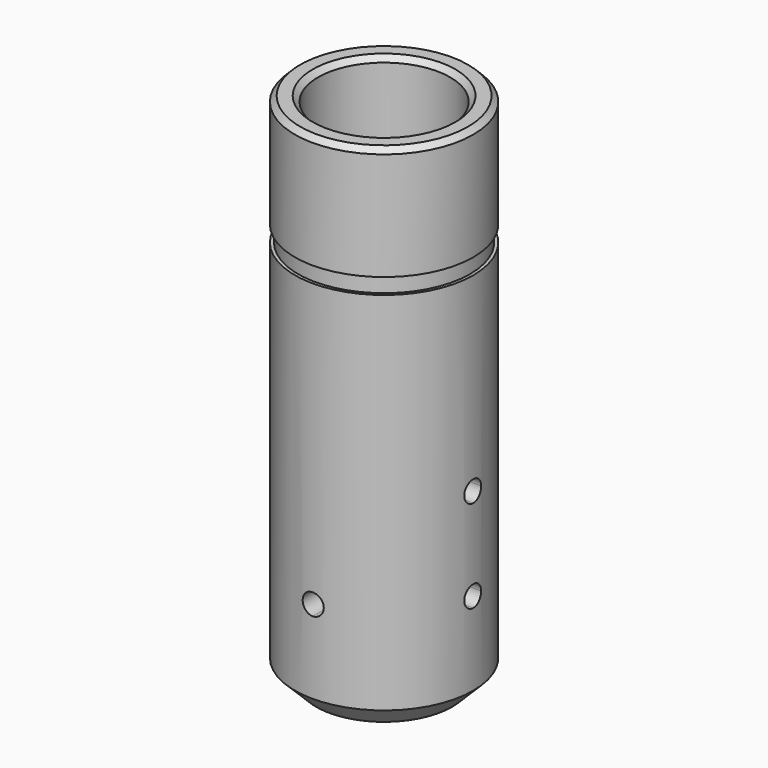
from build123d import *

# Parameters (mm, degrees)
F2_SIZE  = 2.54
F3_SIZE  = 0.635
F5_DEPTH = 12.7
F7_DEPTH = 12.7


with BuildPart() as f1:
    # F0 (on Front) → F1 (revolve)
    with BuildSketch(Plane.XZ):
        Polygon((4.1783, 10.0584), (4.1783, 0), (10.7442, 0), (10.7442, 46.5836), (10.3632, 46.5836), (10.3632, 48.4886), (10.7442, 48.4886), (10.7442, 62.1284), (7.9629, 62.1284), (7.9629, 10.0584), align=None)
    revolve(axis=Axis((0, 0, 31.0642), (0, 0, 1)))

    # F2
    f2_edges = [f1.edges().sort_by_distance(p)[0] for p in [
        (-10.7442, 0, 0),
    ]]
    chamfer(f2_edges, length=F2_SIZE)

    # F3
    f3_edges = [f1.edges().sort_by_distance(p)[0] for p in [
        (-10.7442, 0, 62.1284),
        (-7.9629, 0, 62.1284),
    ]]
    chamfer(f3_edges, length=F3_SIZE)

    # F4 (on Right) → F5 (cut, symmetric)
    with BuildSketch(Plane.YZ):
        with BuildLine():
            ThreePointArc((0, 13.843), (-1.27, 12.573), (0, 11.303))
            Line((0, 11.303), (0, 12.573))
            Line((0, 12.573), (0, 13.843))
        make_face()
        with BuildLine():
            ThreePointArc((1.27, 23.6982), (-0.8980256121, 24.5962256121), (0, 22.4282))
            ThreePointArc((0, 22.4282), (0.8980256121, 22.8001743879), (1.27, 23.6982))
        make_face()
        with BuildLine():
            Line((0, 12.573), (0, 11.303))
            ThreePointArc((0, 11.303), (0.8980256121, 11.6749743879), (1.27, 12.573))
            ThreePointArc((1.27, 12.573), (0.8980256121, 13.4710256121), (0, 13.843))
            Line((0, 13.843), (0, 12.573))
        make_face()
    extrude(amount=F5_DEPTH, both=True, mode=Mode.SUBTRACT)

    # F6 (on Front) → F7 (cut, symmetric)
    with BuildSketch(Plane.XZ):
        with BuildLine():
            ThreePointArc((0, 11.303), (0.8980256121, 11.6749743879), (1.27, 12.573))
            ThreePointArc((1.27, 12.573), (-0.8980256121, 13.4710256121), (0, 11.303))
        make_face()
    extrude(amount=F7_DEPTH, both=True, mode=Mode.SUBTRACT)


solid = f1.part
